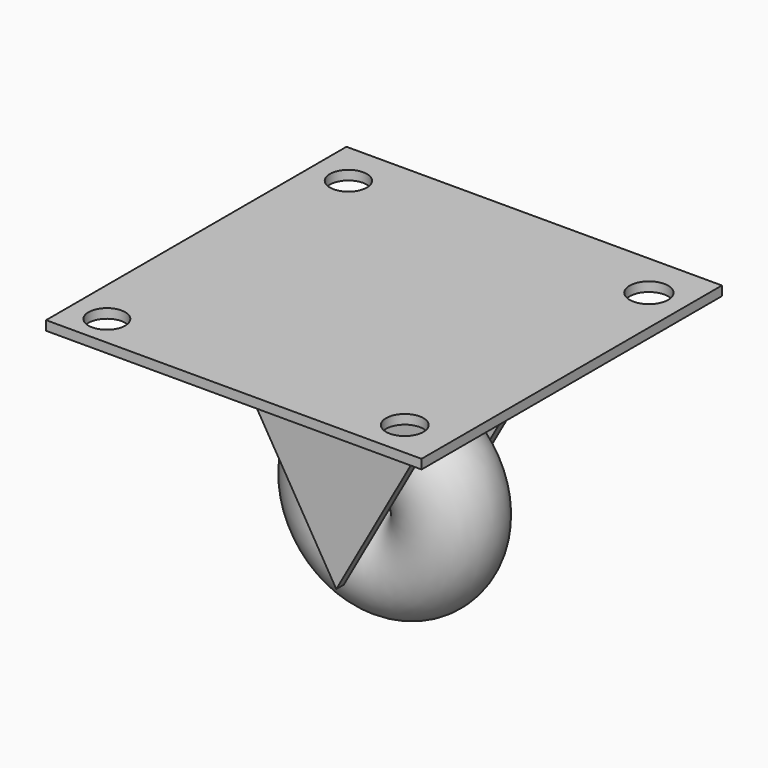
from build123d import *

# Parameters (mm, degrees)
SKETCH_W                = 40
SKETCH_H                = 40
SKETCH_R                = 1.966916
SKETCH_R_2              = 2.053519
SKETCH_R_3              = 1.99135
SKETCH_R_4              = 1.952108
PAD_DEPTH               = 1
PAD001_DEPTH            = 1
BODY001_PLACEMENT_ANGLE = 270
PAD002_DEPTH            = 1
BODY002_PLACEMENT_ANGLE = 270
TORUS_R                 = 5
CYLINDER_R              = 12
CYLINDER_DEPTH          = 1


with BuildPart() as base_rueda:
    # Sketch → Pad (new body)
    with BuildSketch(Plane.XY):
        with Locations((0.01708, -0.75078)):
            Rectangle(SKETCH_W, SKETCH_H)
        with Locations((-16.032265, 14.568605)):
            Circle(SKETCH_R, mode=Mode.SUBTRACT)
        with Locations((16.095686, 14.429518)):
            Circle(SKETCH_R_2, mode=Mode.SUBTRACT)
        with Locations((15.122115, -16.863941)):
            Circle(SKETCH_R_3, mode=Mode.SUBTRACT)
        with Locations((-16.171347, -17.420269)):
            Circle(SKETCH_R_4, mode=Mode.SUBTRACT)
    extrude(amount=PAD_DEPTH)


with BuildPart() as base_rueda_1:
    # Body placement: moved
    add(base_rueda.part.moved(Location((0, 46, 0))))


with BuildPart() as triangle1:
    # Sketch002 → Pad001 (new body)
    with BuildSketch(Plane.XY):
        Polygon((11.942038, -7.387341), (-0.260369, 14.432404), (-13.055619, -7.045063), align=None)
    extrude(amount=PAD001_DEPTH)


with BuildPart() as triangle1_1:
    # Body001 placement: moved
    add(triangle1.part.moved(Location((1, 50, -9))).rotate(Axis((1, 50, -9), (1, 0, 0)), BODY001_PLACEMENT_ANGLE))


with BuildPart() as triangle2:
    # Sketch003 → Pad002 (new body)
    with BuildSketch(Plane.XY):
        Polygon((11.942038, -7.387341), (-0.260369, 14.432404), (-13.055619, -7.045063), align=None)
    extrude(amount=PAD002_DEPTH)


with BuildPart() as triangle2_1:
    # Body002 placement: moved
    add(triangle2.part.moved(Location((1, 37.990381, -8.232051))).rotate(Axis((1, 37.990381, -8.232051), (1, 0, 0)), BODY002_PLACEMENT_ANGLE))


with BuildPart() as rueda:
    # Torus → Torus (revolve)
    with BuildSketch(Plane(origin=(1.835505, 44.398514, -16), x_dir=(0, 0, -1), z_dir=(1, 0, 0))):
        with Locations((6, 0)):
            Circle(TORUS_R)
    revolve(axis=Axis((1.835505, 44.398514, -16), (0, 1, 0)))


with BuildPart() as obj1:
    # Cylinder → Cylinder (new body)
    with BuildSketch(Plane(origin=(0, 44, -1), x_dir=(1, 0, 0), z_dir=(0, 0, 1))):
        Circle(CYLINDER_R)
    extrude(amount=CYLINDER_DEPTH)


solid = Compound([base_rueda_1.part, triangle1_1.part, triangle2_1.part, rueda.part, obj1.part])
